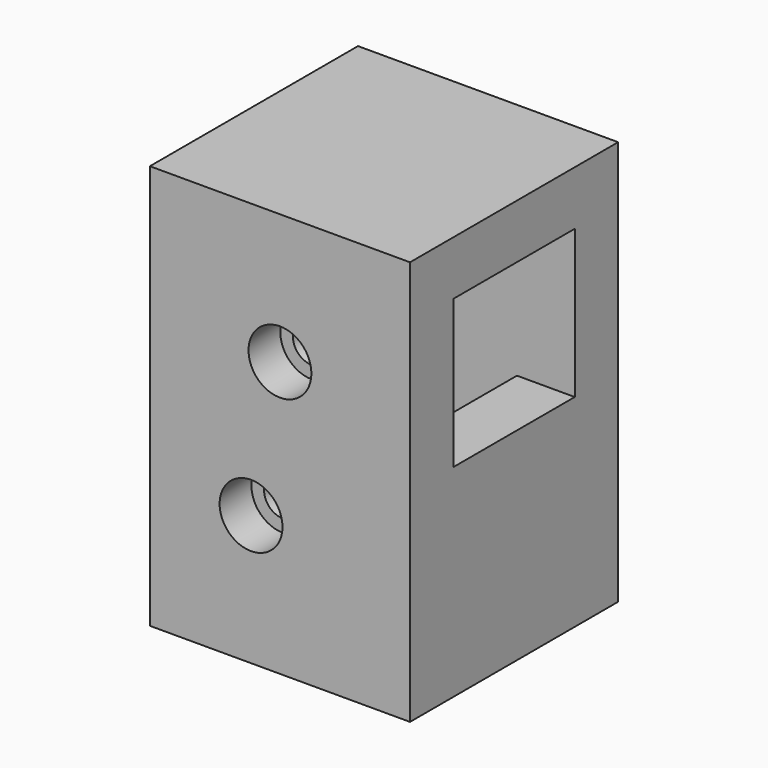
from build123d import *

# Parameters (mm, degrees)
F0_W     = 36
F0_H     = 36
F1_DEPTH = 56
F2_W     = 21
F2_H     = 41
F3_DEPTH = 28
F4_W     = 21
F4_H     = 20.5
F5_DEPTH = 70
F6_R     = 2.6
F7_DEPTH = 20
F8_R     = 4.35
F9_DEPTH = 5.5


with BuildPart() as f1:
    # F0 (on Top) → F1 (new body)
    with BuildSketch(Plane.XY):
        with Locations((18, 18)):
            Rectangle(F0_W, F0_H)
    extrude(amount=F1_DEPTH)

    # F2 (on face) → F3 (cut)
    with BuildSketch(Plane(origin=(0, 0, 0), x_dir=(0, -1, 0), z_dir=(-1, 0, 0))):
        with Locations((-18, 28)):
            Rectangle(F2_W, F2_H)
    extrude(amount=-F3_DEPTH, mode=Mode.SUBTRACT)

    # F4 (on face) → F5 (cut)
    with BuildSketch(Plane(origin=(0, 0, 0), x_dir=(0, -1, 0), z_dir=(-1, 0, 0))):
        with Locations((-18, 38.25)):
            Rectangle(F4_W, F4_H)
    extrude(amount=-F5_DEPTH, mode=Mode.SUBTRACT)

    # F6 (on face) → F7 (cut)
    with BuildSketch(Plane.XZ):
        with Locations((18, 38)):
            Circle(F6_R)
        with Locations((14, 18)):
            Circle(F6_R)
    extrude(amount=-F7_DEPTH, mode=Mode.SUBTRACT)

    # F8 (on face) → F9 (cut)
    with BuildSketch(Plane.XZ):
        with Locations((18, 38)):
            Circle(F8_R)
        with Locations((14, 18)):
            Circle(F8_R)
    extrude(amount=-F9_DEPTH, mode=Mode.SUBTRACT)


solid = f1.part
